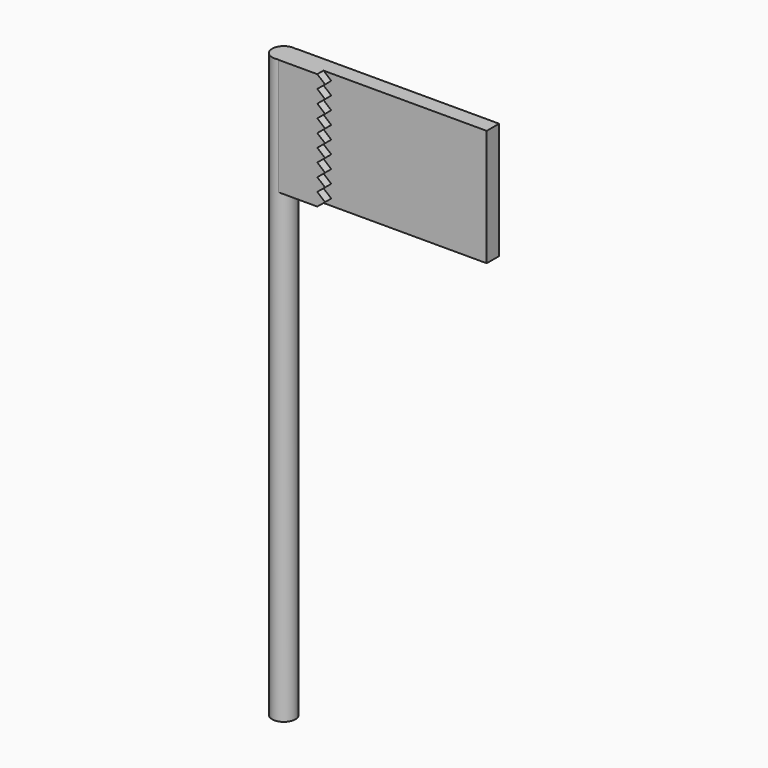
from build123d import *

# Parameters (mm, degrees)
F0_R     = 3
F1_DEPTH = 150
F2_W     = 52
F2_H     = 30
F3_DEPTH = 3
F5_DEPTH = 2


with BuildPart() as f1:
    # F0 (on Top) → F1 (new body)
    with BuildSketch(Plane.XY):
        Circle(F0_R)
    extrude(amount=F1_DEPTH)

    # F2 (on Front) → F3 (join, symmetric)
    with BuildSketch(Plane.XZ):
        with Locations((27.0199, 135)):
            Rectangle(F2_W, F2_H)
    extrude(amount=F3_DEPTH, both=True)

    # F4 (on face) → F5 (cut)
    with BuildSketch(Plane.XZ.offset(3)):
        Polygon((11.0199, 120), (53.0199, 120), (53.0199, 150), (11.0199, 150), (13.0199, 148.321801), (11.0199, 146.666667), (13.0199, 144.988467), (11.0199, 143.333333), (13.0199, 141.655134), (11.0199, 140), (13.0199, 138.321801), (11.0199, 136.666667), (13.0199, 134.988467), (11.0199, 133.333333), (13.0199, 131.655134), (11.0199, 130), (13.0199, 128.321801), (11.0199, 126.666667), (13.0199, 124.988467), (11.0199, 123.333333), (13.0199, 121.655134), align=None)
    extrude(amount=-F5_DEPTH, mode=Mode.SUBTRACT)


solid = f1.part
